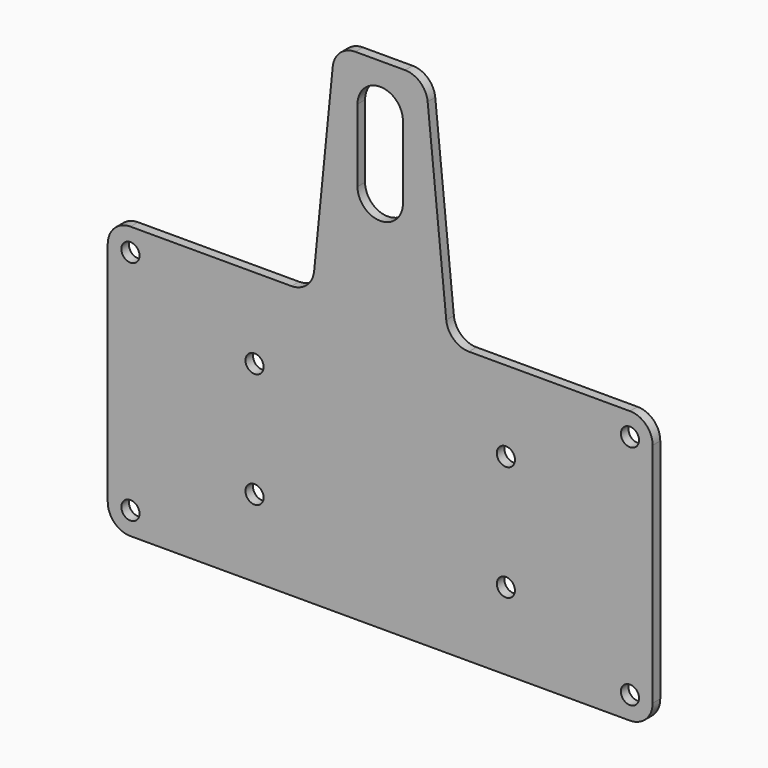
from build123d import *

# Parameters (mm, degrees)
F0_R     = 2.54
F1_DEPTH = 2.65684


with BuildPart() as f1:
    # F0 (on Front) → F1 (new body)
    with BuildSketch(Plane.XZ):
        with BuildLine():
            Line((-69.85, 0), (0, 0))
            Line((0, 0), (69.85, 0))
            ThreePointArc((69.85, 0), (74.340128, 1.859872), (76.2, 6.35))
            Line((76.2, 6.35), (76.2, 69.85))
            ThreePointArc((76.2, 69.85), (74.340128, 74.340128), (69.85, 76.2))
            Line((69.85, 76.2), (24.796671, 76.2))
            ThreePointArc((24.796671, 76.2), (20.535787, 77.841776), (18.478185, 81.918151))
            Line((18.478185, 81.918151), (13.271815, 133.981849))
            ThreePointArc((13.271815, 133.981849), (11.214213, 138.058224), (6.953329, 139.7))
            Line((6.953329, 139.7), (0, 139.7))
            Line((0, 139.7), (-6.953329, 139.7))
            ThreePointArc((-6.953329, 139.7), (-11.214213, 138.058224), (-13.271815, 133.981849))
            Line((-13.271815, 133.981849), (-18.478185, 81.918151))
            ThreePointArc((-18.478185, 81.918151), (-20.535787, 77.841776), (-24.796671, 76.2))
            Line((-24.796671, 76.2), (-69.85, 76.2))
            ThreePointArc((-69.85, 76.2), (-74.340128, 74.340128), (-76.2, 69.85))
            Line((-76.2, 69.85), (-76.2, 6.35))
            ThreePointArc((-76.2, 6.35), (-74.340128, 1.859872), (-69.85, 0))
        make_face()
        with Locations((-69.85, 6.35)):
            Circle(F0_R, mode=Mode.SUBTRACT)
        with Locations((-35.147801, 21.569327)):
            Circle(F0_R, mode=Mode.SUBTRACT)
        with Locations((-35.147801, 53.738443)):
            Circle(F0_R, mode=Mode.SUBTRACT)
        with Locations((35.147801, 21.569327)):
            Circle(F0_R, mode=Mode.SUBTRACT)
        with Locations((69.85, 6.35)):
            Circle(F0_R, mode=Mode.SUBTRACT)
        with Locations((35.147801, 53.738443)):
            Circle(F0_R, mode=Mode.SUBTRACT)
        with Locations((-69.85, 69.85)):
            Circle(F0_R, mode=Mode.SUBTRACT)
        with Locations((69.85, 69.85)):
            Circle(F0_R, mode=Mode.SUBTRACT)
        with BuildLine():
            Line((-6.35, 106.68), (-6.35, 127))
            ThreePointArc((-6.35, 127), (0, 133.35), (6.35, 127))
            Line((6.35, 127), (6.35, 106.68))
            ThreePointArc((6.35, 106.68), (0, 100.33), (-6.35, 106.68))
        make_face(mode=Mode.SUBTRACT)
    extrude(amount=F1_DEPTH)


solid = f1.part
